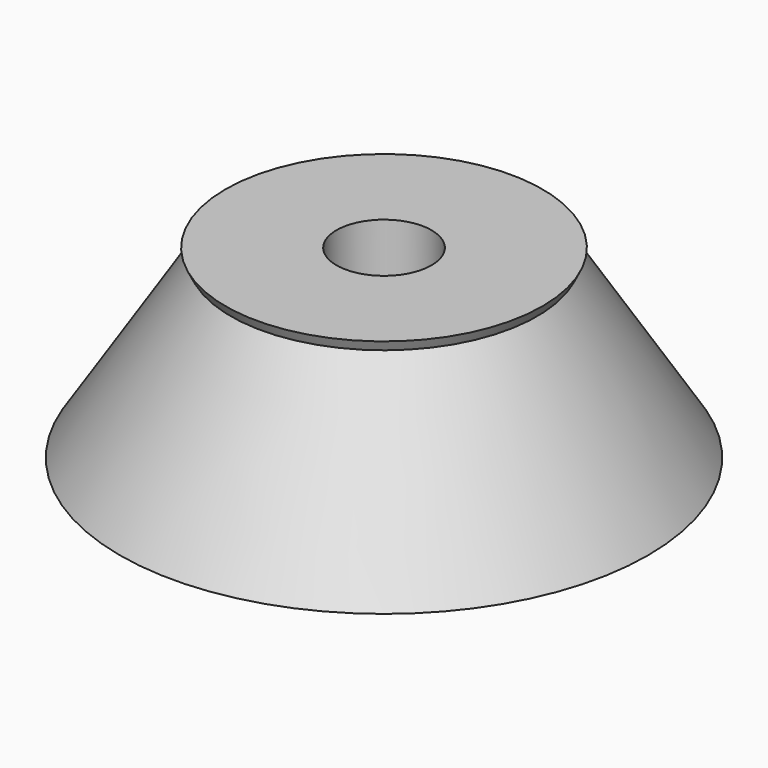
from build123d import *

# Parameters (mm, degrees)
F2_R     = 9
F3_DEPTH = 35.001


with BuildPart() as f1:
    # F0 (on Front) → F1 (revolve)
    with BuildSketch(Plane.XZ):
        Polygon((0, -35), (0, 0), (-30, 0), (-29, -2), (-50, -35), align=None)
    revolve(axis=Axis((0, 0, -17.5), (0, 0, -1)))

    # F2 (on face) → F3 (cut, through all)
    with BuildSketch(Plane.XY):
        Circle(F2_R)
    extrude(amount=-F3_DEPTH, mode=Mode.SUBTRACT)


solid = f1.part
